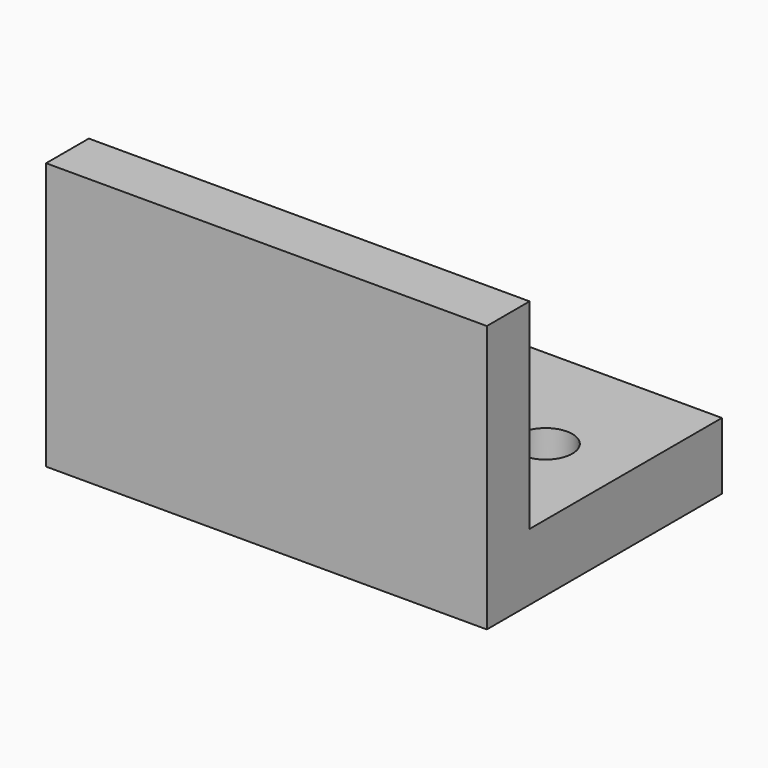
from build123d import *

# Parameters (mm, degrees)
CYLINDER291_R     = 2
CYLINDER291_DEPTH = 10
CYLINDER290_R     = 2
CYLINDER290_DEPTH = 10
BOX400_W          = 33
BOX400_H          = 22
BOX400_DEPTH      = 5
BOX397_W          = 33
BOX397_H          = 4
BOX397_DEPTH      = 20


with BuildPart() as cylinder291:
    # Cylinder291 → Cylinder291 (new body)
    with BuildSketch(Plane(origin=(-15, 72, 32), x_dir=(1, 0, 0), z_dir=(0, 0, 1))):
        Circle(CYLINDER291_R)
    extrude(amount=CYLINDER291_DEPTH)


with BuildPart() as fusion229:
    # Cylinder290 → Cylinder290 (new body)
    with BuildSketch(Plane(origin=(-36, 72, 32), x_dir=(1, 0, 0), z_dir=(0, 0, 1))):
        Circle(CYLINDER290_R)
    extrude(amount=CYLINDER290_DEPTH)

    # Fusion229: union Cylinder291
    add(cylinder291.part)


with BuildPart() as cut277:
    # Box400 → Box400 (new body)
    with BuildSketch(Plane(origin=(-42, 59, 37), x_dir=(1, 0, 0), z_dir=(0, 0, 1))):
        with Locations((16.5, 11)):
            Rectangle(BOX400_W, BOX400_H)
    extrude(amount=BOX400_DEPTH)

    # Cut277: cut Fusion229
    add(fusion229.part, mode=Mode.SUBTRACT)


with BuildPart() as lipo_cover:
    # Box397 → Box397 (new body)
    with BuildSketch(Plane(origin=(-42, 59, 37), x_dir=(1, 0, 0), z_dir=(0, 0, 1))):
        with Locations((16.5, 2)):
            Rectangle(BOX397_W, BOX397_H)
    extrude(amount=BOX397_DEPTH)

    # Fusion231: union Cut277
    add(cut277.part)


solid = lipo_cover.part
